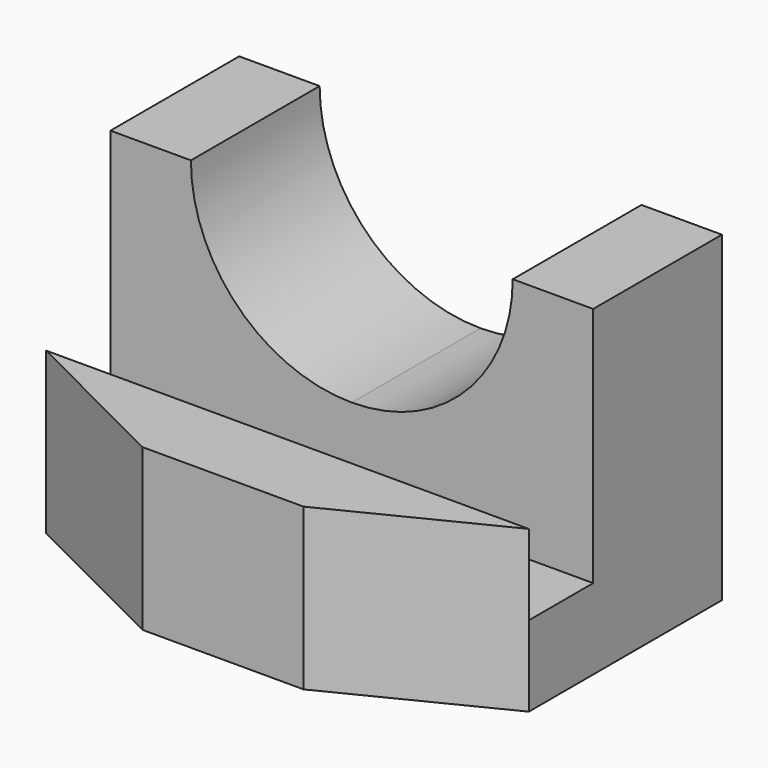
from build123d import *

# Parameters (mm, degrees)
F1_DEPTH = 20
F2_W     = 60
F2_H     = 10
F3_DEPTH = 10
F5_DEPTH = 20


with BuildPart() as f1:
    # F0 (on Front) → F1 (new body)
    with BuildSketch(Plane.XZ):
        with BuildLine():
            Line((-30, 0), (0, 0))
            Line((0, 0), (30, 0))
            Line((30, 0), (30, 40))
            Line((30, 40), (20, 40))
            ThreePointArc((20, 40), (14.142136, 25.857864), (0, 20))
            ThreePointArc((0, 20), (-14.142136, 25.857864), (-20, 40))
            Line((-20, 40), (-30, 40))
            Line((-30, 40), (-30, 0))
        make_face()
    extrude(amount=F1_DEPTH)

    # F2 (on face) → F3 (join)
    with BuildSketch(Plane.XZ.offset(20)):
        with Locations((0, 5)):
            Rectangle(F2_W, F2_H)
    extrude(amount=F3_DEPTH)

    # F4 (on face) → F5 (join)
    with BuildSketch(Plane(origin=(0, 0, 0), x_dir=(1, 0, 0), z_dir=(0, 0, -1))):
        Polygon((-10, 40), (-30, 30), (0, 30), (30, 30), (10, 40), (0, 40), align=None)
    extrude(amount=-F5_DEPTH)


solid = f1.part
